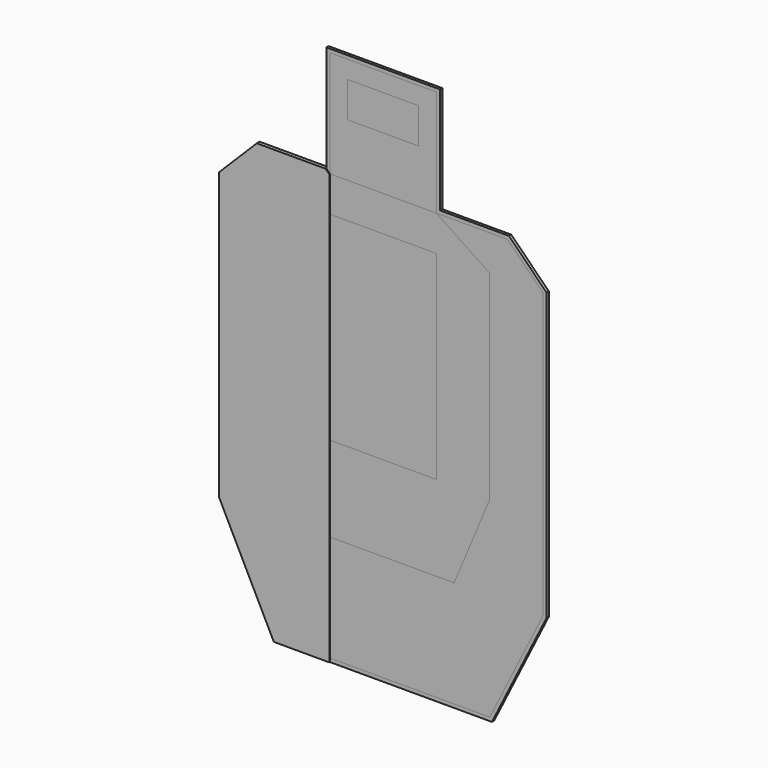
from build123d import *

# Parameters (mm, degrees)
F1_DEPTH  = 3
F2_W      = 150
F2_H      = 150
F3_DEPTH  = 3
F4_W      = 150
F4_H      = 280
F5_DEPTH  = 3
F6_W      = 150
F6_H      = 280
F7_DEPTH  = 3
F9_DEPTH  = 3
F11_DEPTH = 3
F13_DEPTH = 1
F15_DEPTH = 1
F17_DEPTH = 1


with BuildPart() as f1:
    # F0 (on Front) → F1 (new body)
    with BuildSketch(Plane.XZ):
        Polygon((50, 125), (0, 125), (-50, 125), (-50, 100), (-50, 75), (0, 75), (50, 75), (50, 100), align=None)
    extrude(amount=-F1_DEPTH)


with BuildPart() as f3:
    # F2 (on Front) → F3 (new body)
    with BuildSketch(Plane.XZ):
        with Locations((0, 75)):
            Rectangle(F2_W, F2_H)
        Polygon((-50, 125), (0, 125), (50, 125), (50, 100), (50, 75), (0, 75), (-50, 75), (-50, 100), align=None, mode=Mode.SUBTRACT)
    extrude(amount=-F3_DEPTH)


with BuildPart() as f5:
    # F4 (on Front) → F5 (new body)
    with BuildSketch(Plane.XZ):
        with Locations((0, -190)):
            Rectangle(F4_W, F4_H)
    extrude(amount=-F5_DEPTH)


with BuildPart() as f7:
    # F6 (on Front) → F7 (new body)
    with BuildSketch(Plane.XZ):
        Polygon((75, 0), (-75, 0), (-150, -50), (-150, -330), (-100, -450), (100, -450), (150, -330), (150, -50), align=None)
        with Locations((0, -190)):
            Rectangle(F6_W, F6_H, mode=Mode.SUBTRACT)
    extrude(amount=-F7_DEPTH)


with BuildPart() as f9:
    # F8 (on face) → F9 (new body)
    with BuildSketch(Plane.XZ):
        Polygon((175, 0), (75, 0), (150, -50), (150, -330), (100, -450), (-100, -450), (-150, -330), (-150, -50), (-75, 0), (-175, 0), (-225, -50), (-225, -450), (-150, -600), (150, -600), (225, -450), (225, -50), align=None)
    extrude(amount=-F9_DEPTH)


with BuildPart() as f11:
    # F10 (on face) → F11 (new body)
    with BuildSketch(Plane.XZ):
        Polygon((230, -47.928932), (177.071068, 5), (80, 5), (80, 155), (-80, 155), (-80, 5), (-177.071068, 5), (-230, -47.928932), (-230, -451.18034), (-153.09017, -605), (153.09017, -605), (230, -451.18034), align=None)
        Polygon((-75, 150), (75, 150), (75, 0), (175, 0), (225, -50), (225, -450), (150, -600), (-150, -600), (-225, -450), (-225, -50), (-175, 0), (-75, 0), align=None, mode=Mode.SUBTRACT)
    extrude(amount=-F11_DEPTH)


with BuildPart() as f13:
    # F12 (on face) → F13 (new body)
    with BuildSketch(Plane(origin=(0, 3, 0), x_dir=(-1, 0, 0), z_dir=(0, 1, 0))):
        Polygon((75, 0), (75, 150), (-75, 150), (-75, 0), (-175, 0), (-225, -50), (-225, -450), (-150, -600), (150, -600), (225, -450), (225, -50), (175, 0), align=None)
    extrude(amount=F13_DEPTH)


with BuildPart() as f15:
    # F14 (on face) → F15 (new body)
    with BuildSketch(Plane(origin=(0, 4, 0), x_dir=(-1, 0, 0), z_dir=(0, 1, 0))):
        Polygon((80, 155), (-80, 155), (-80, 5), (-177.071068, 5), (-230, -47.928932), (-230, -451.18034), (-153.09017, -605), (153.09017, -605), (230, -451.18034), (230, -47.928932), (177.071068, 5), (80, 5), align=None)
        Polygon((-75, 0), (-75, 150), (75, 150), (75, 0), (175, 0), (225, -50), (225, -450), (150, -600), (-150, -600), (-225, -450), (-225, -50), (-175, 0), align=None, mode=Mode.SUBTRACT)
    extrude(amount=-F15_DEPTH)


with BuildPart() as f17:
    # F16 (on face) → F17 (new body)
    with BuildSketch(Plane.XZ):
        Polygon((-153.09017, -605), (-75, -605), (-75, 0), (-80, 5), (-177.071068, 5), (-230, -47.928932), (-230, -451.18034), align=None)
    extrude(amount=F17_DEPTH)


solid = Compound([f1.part, f3.part, f5.part, f7.part, f9.part, f11.part, f13.part, f15.part, f17.part])
